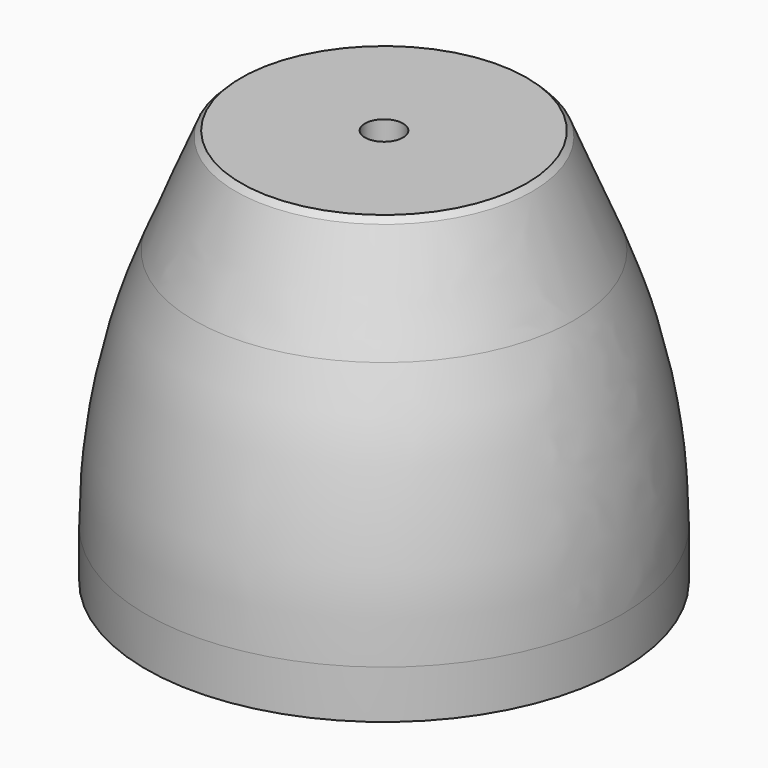
from build123d import *

# Parameters (mm, degrees)
TUBE_R          = 15
TUBE_R_2        = 1.2
TUBE_DEPTH      = 25
CHAMFER_SIZE    = 6
CHAMFER001_SIZE = 8
FILLET_R        = 40


with BuildPart() as part:
    # Tube → Tube (new body)
    with BuildSketch(Plane.XY):
        Circle(TUBE_R)
        Circle(TUBE_R_2, mode=Mode.SUBTRACT)
    extrude(amount=TUBE_DEPTH)

    # Chamfer
    chamfer_edges = [part.edges().sort_by_distance(p)[0] for p in [
        (-15, 0, 25),
    ]]
    chamfer(chamfer_edges, length=CHAMFER_SIZE)

    # Chamfer001
    chamfer001_edges = [part.edges().sort_by_distance(p)[0] for p in [
        (-15, 0, 19),
    ]]
    chamfer(chamfer001_edges, length=CHAMFER001_SIZE)

    # Fillet
    fillet_edges = [part.edges().sort_by_distance(p)[0] for p in [
        (-14.999996, 0, 11),
    ]]
    fillet(fillet_edges, radius=FILLET_R)


with BuildPart() as part_1:
    # Fillet placement: moved
    add(part.part.moved(Location((0, 0, 60))))


solid = part_1.part
